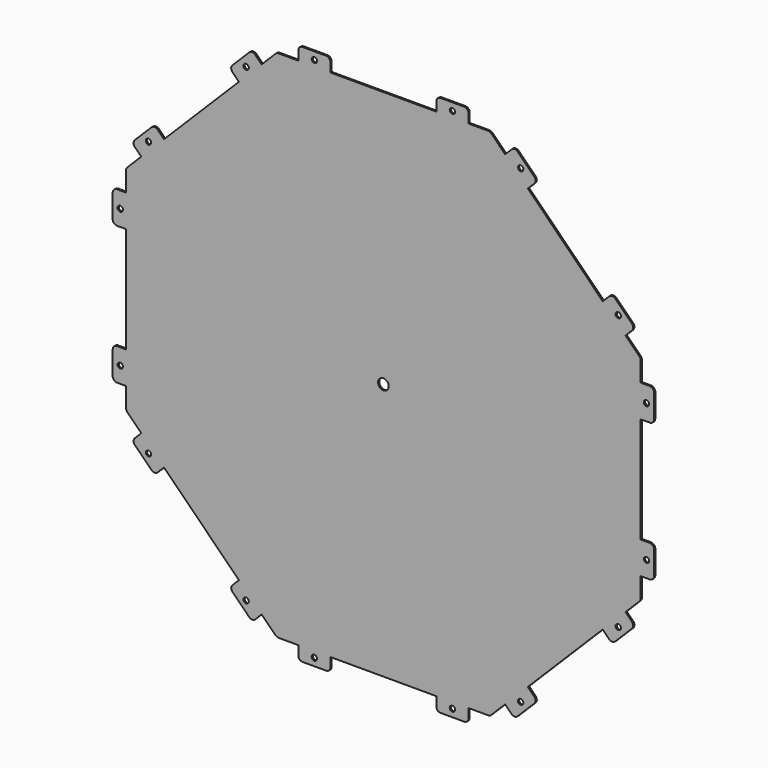
from build123d import *

# Parameters (mm, degrees)
F0_R     = 3.175
F0_R_2   = 6.35
F1_DEPTH = 1.8288
F2_R     = 5.08


with BuildPart() as f1:
    # F0 (on Front) → F1 (new body)
    with BuildSketch(Plane.XZ):
        Polygon((-100.838, 304.8), (-126.238, 304.8), (-144.215766, 286.822234), (-155.448233, 298.054701), (-182.389002, 271.113932), (-171.156535, 259.881465), (-259.881465, 171.156535), (-271.113932, 182.389002), (-298.054701, 155.448233), (-286.822234, 144.215766), (-304.8, 126.238), (-304.8, 100.838), (-320.675, 100.838), (-320.675, 62.738), (-304.8, 62.738), (-304.8, -62.738), (-320.675, -62.738), (-320.675, -100.838), (-304.8, -100.838), (-304.8, -126.238), (-286.822234, -144.215766), (-298.054701, -155.448233), (-271.113932, -182.389002), (-259.881465, -171.156535), (-171.156535, -259.881465), (-182.389002, -271.113932), (-155.448233, -298.054701), (-144.215766, -286.822234), (-126.238, -304.8), (-100.838, -304.8), (-100.838, -320.675), (-62.738, -320.675), (-62.738, -304.8), (62.738, -304.8), (62.738, -320.675), (100.838, -320.675), (100.838, -304.8), (126.238, -304.8), (144.215766, -286.822234), (155.448233, -298.054701), (182.389002, -271.113932), (171.156535, -259.881465), (259.881465, -171.156535), (271.113932, -182.389002), (298.054701, -155.448233), (286.822234, -144.215766), (304.8, -126.238), (304.8, -100.838), (320.675, -100.838), (320.675, -62.738), (304.8, -62.738), (304.8, 62.738), (320.675, 62.738), (320.675, 100.838), (304.8, 100.838), (304.8, 126.238), (286.822234, 144.215766), (298.054701, 155.448233), (271.113932, 182.389002), (259.881465, 171.156535), (171.156535, 259.881465), (182.389002, 271.113932), (155.448233, 298.054701), (144.215766, 286.822234), (126.238, 304.8), (100.838, 304.8), (100.838, 320.675), (62.738, 320.675), (62.738, 304.8), (-62.738, 304.8), (-62.738, 320.675), (-100.838, 320.675), align=None)
        with Locations((-162.614478, -278.280177)):
            Circle(F0_R, mode=Mode.SUBTRACT)
        with Locations((-278.280177, -162.614478)):
            Circle(F0_R, mode=Mode.SUBTRACT)
        with Locations((-81.788, -311.7596)):
            Circle(F0_R, mode=Mode.SUBTRACT)
        with Locations((-311.7596, -81.788)):
            Circle(F0_R, mode=Mode.SUBTRACT)
        with Locations((81.788, -311.7596)):
            Circle(F0_R, mode=Mode.SUBTRACT)
        with Locations((162.614478, -278.280177)):
            Circle(F0_R, mode=Mode.SUBTRACT)
        with Locations((278.280177, -162.614478)):
            Circle(F0_R, mode=Mode.SUBTRACT)
        with Locations((311.7596, -81.788)):
            Circle(F0_R, mode=Mode.SUBTRACT)
        with Locations((-311.7596, 81.788)):
            Circle(F0_R, mode=Mode.SUBTRACT)
        with Locations((-278.280177, 162.614478)):
            Circle(F0_R, mode=Mode.SUBTRACT)
        with Locations((-162.614478, 278.280177)):
            Circle(F0_R, mode=Mode.SUBTRACT)
        with Locations((-81.788, 311.7596)):
            Circle(F0_R, mode=Mode.SUBTRACT)
        Circle(F0_R_2, mode=Mode.SUBTRACT)
        with Locations((311.7596, 81.788)):
            Circle(F0_R, mode=Mode.SUBTRACT)
        with Locations((81.788, 311.7596)):
            Circle(F0_R, mode=Mode.SUBTRACT)
        with Locations((278.280177, 162.614478)):
            Circle(F0_R, mode=Mode.SUBTRACT)
        with Locations((162.614478, 278.280177)):
            Circle(F0_R, mode=Mode.SUBTRACT)
    extrude(amount=F1_DEPTH)

    # F2
    f2_edges = [f1.edges().sort_by_distance(p)[0] for p in [
        (-271.113932, -0.9144, 182.389002),
        (-298.054701, -0.9144, 155.448233),
        (-182.389002, -0.9144, 271.113932),
        (-155.448233, -0.9144, 298.054701),
        (-100.838, -0.9144, 320.675),
        (-62.738, -0.9144, 320.675),
        (62.738, -0.9144, 320.675),
        (100.838, -0.9144, 320.675),
        (155.448233, -0.9144, 298.054701),
        (182.389002, -0.9144, 271.113932),
        (271.113932, -0.9144, 182.389002),
        (298.054701, -0.9144, 155.448233),
        (320.675, -0.9144, 100.838),
        (320.675, -0.9144, 62.738),
        (320.675, -0.9144, -62.738),
        (320.675, -0.9144, -100.838),
        (298.054701, -0.9144, -155.448233),
        (271.113932, -0.9144, -182.389002),
        (182.389002, -0.9144, -271.113932),
        (155.448233, -0.9144, -298.054701),
        (100.838, -0.9144, -320.675),
        (62.738, -0.9144, -320.675),
        (-62.738, -0.9144, -320.675),
        (-100.838, -0.9144, -320.675),
        (-155.448233, -0.9144, -298.054701),
        (-182.389002, -0.9144, -271.113932),
        (-271.113932, -0.9144, -182.389002),
        (-298.054701, -0.9144, -155.448233),
        (-320.675, -0.9144, -100.838),
        (-320.675, -0.9144, -62.738),
        (-320.675, -0.9144, 62.738),
        (-320.675, -0.9144, 100.838),
        (126.238, -0.9144, 304.8),
        (304.8, -0.9144, 126.238),
        (304.8, -0.9144, -126.238),
        (126.238, -0.9144, -304.8),
        (-126.238, -0.9144, -304.8),
        (-304.8, -0.9144, -126.238),
        (-304.8, -0.9144, 126.238),
        (-126.238, -0.9144, 304.8),
    ]]
    fillet(f2_edges, radius=F2_R)


solid = f1.part
